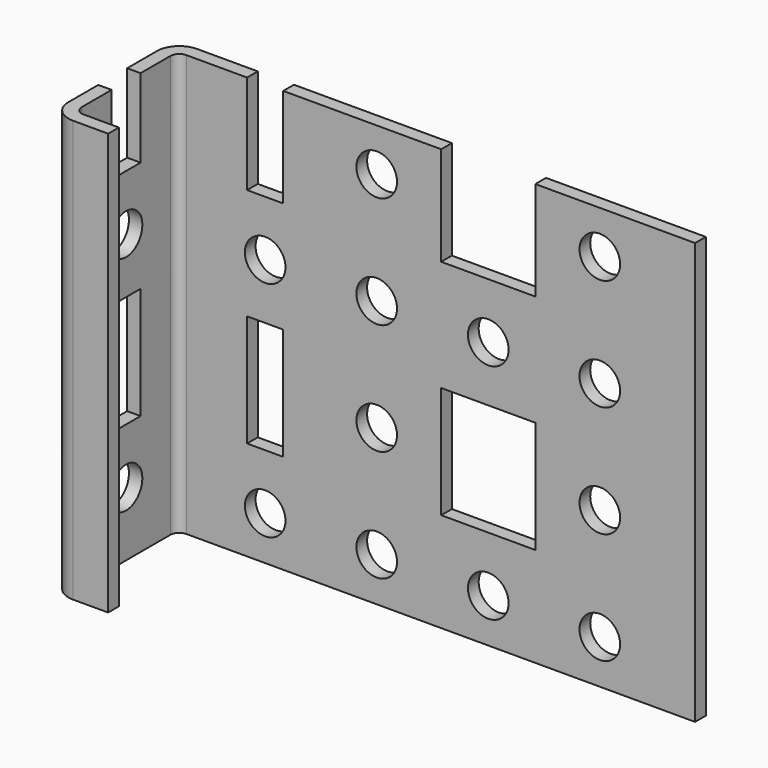
from build123d import *

# Parameters (mm, degrees)
F0_W     = 1.5
F0_H     = 1.5
F0_W_2   = 58
F0_H_2   = 14.4
F0_W_3   = 4.95
F1_DEPTH = 47.24
F2_R     = 2.5
F3_R     = 1
F4_R     = 2.275
F4_W     = 10.55
F4_H     = 12.55
F4_W_2   = 4.05
F5_DEPTH = 17.401
F6_W     = 4.05
F6_H     = 8.825
F6_R     = 2.275
F6_H_2   = 12.55
F7_DEPTH = 25


with BuildPart() as f1:
    # F0 (on Top) → F1 (new body)
    with BuildSketch(Plane.XY):
        with Locations((-1.908001, 19.432347)):
            Rectangle(F0_W, F0_H)
        with Locations((27.841999, 19.432347)):
            Rectangle(F0_W_2, F0_H)
        with Locations((-1.908001, 11.482347)):
            Rectangle(F0_W, F0_H_2)
        with Locations((-1.908001, 3.532347)):
            Rectangle(F0_W, F0_H)
        with Locations((1.316999, 3.532347)):
            Rectangle(F0_W_3, F0_H)
    extrude(amount=F1_DEPTH)

    # F2
    f2_edges = [f1.edges().sort_by_distance(p)[0] for p in [
        (-2.658001, 20.182347, 23.62),
        (-2.658001, 2.782347, 23.62),
    ]]
    fillet(f2_edges, radius=F2_R)

    # F3
    f3_edges = [f1.edges().sort_by_distance(p)[0] for p in [
        (-1.158001, 4.282347, 23.62),
        (-1.158001, 18.682347, 23.62),
    ]]
    fillet(f3_edges, radius=F3_R)

    # F4 (on face) → F5 (cut, through all)
    with BuildSketch(Plane(origin=(0, 20.182347, 0), x_dir=(-1, 0, 0), z_dir=(0, 1, 0))):
        with Locations((-46.166999, 42.415)):
            Circle(F4_R)
        with Locations((-21.166999, 42.415)):
            Circle(F4_R)
        with Locations((-21.166999, 29.915)):
            Circle(F4_R)
        with Locations((-46.166999, 29.915)):
            Circle(F4_R)
        with Locations((-21.166999, 17.415)):
            Circle(F4_R)
        with Locations((-46.166999, 17.415)):
            Circle(F4_R)
        with Locations((-21.166999, 4.915)):
            Circle(F4_R)
        with Locations((-46.166999, 4.915)):
            Circle(F4_R)
        with Locations((-33.666999, 29.915)):
            Circle(F4_R)
        with Locations((-33.666999, 4.915)):
            Circle(F4_R)
        with Locations((-8.666999, 29.915)):
            Circle(F4_R)
        with Locations((-8.666999, 4.915)):
            Circle(F4_R)
        with Locations((-33.666999, 17.415)):
            Rectangle(F4_W, F4_H)
        with Locations((-33.666999, 42.415)):
            Rectangle(F4_W, F4_H)
        with Locations((-8.666999, 17.415)):
            Rectangle(F4_W_2, F4_H)
        with Locations((-8.666999, 42.415)):
            Rectangle(F4_W_2, F4_H)
    extrude(amount=-F5_DEPTH, mode=Mode.SUBTRACT)

    # F6 (on face) → F7 (cut)
    with BuildSketch(Plane(origin=(-2.658001, 0, 0), x_dir=(0, -1, 0), z_dir=(-1, 0, 0))):
        with Locations((-11.482347, 42.8275)):
            Rectangle(F6_W, F6_H)
        with Locations((-11.482347, 32.19)):
            Circle(F6_R)
        with Locations((-11.482347, 19.69)):
            Rectangle(F6_W, F6_H_2)
        with Locations((-11.482347, 7.19)):
            Circle(F6_R)
    extrude(amount=-F7_DEPTH, mode=Mode.SUBTRACT)


solid = f1.part
